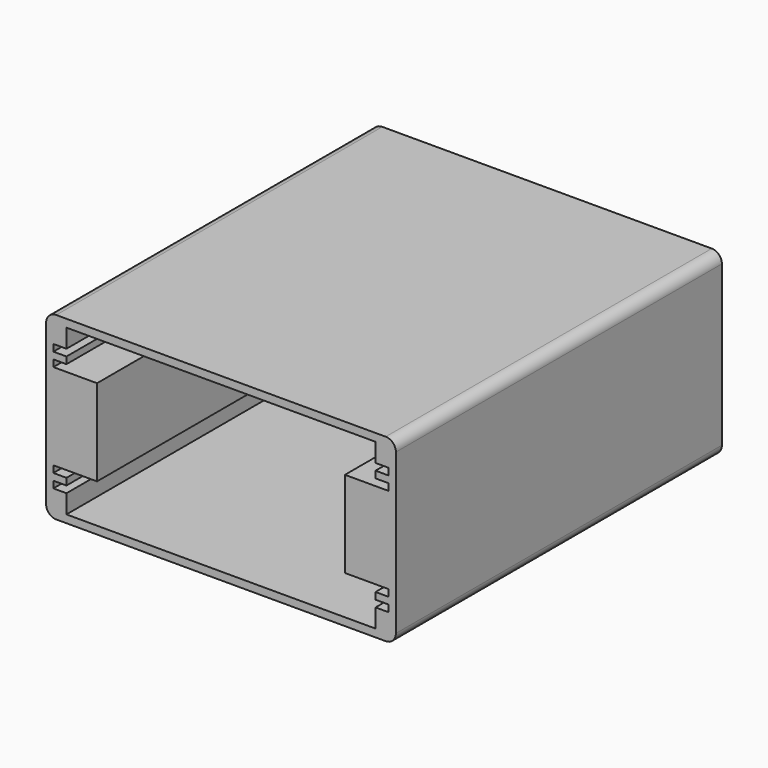
from build123d import *

# Parameters (mm, degrees)
F1_DEPTH = 60


with BuildPart() as f1:
    # F0 (on Front) → F1 (new body, symmetric)
    with BuildSketch(Plane.XZ):
        with BuildLine():
            Line((49.355, 12.725), (51.5, 12.725))
            Line((51.5, 12.725), (51.5, 23.5))
            ThreePointArc((51.5, 23.5), (50.62132, 25.62132), (48.5, 26.5))
            Line((48.5, 26.5), (-48.5, 26.5))
            ThreePointArc((-48.5, 26.5), (-50.62132, 25.62132), (-51.5, 23.5))
            Line((-51.5, 23.5), (-51.5, 12.725))
            Line((-51.5, 12.725), (-49.355, 12.725))
            Line((-49.355, 12.725), (-49.355, 14.725))
            Line((-49.355, 14.725), (-45.5, 14.725))
            Line((-45.5, 14.725), (-45.5, 16.725))
            Line((-45.5, 16.725), (-49.355, 16.725))
            Line((-49.355, 16.725), (-49.355, 18.725))
            Line((-49.355, 18.725), (-45.5, 18.725))
            Line((-45.5, 18.725), (-45.5, 24.21))
            Line((-45.5, 24.21), (45.5, 24.21))
            Line((45.5, 24.21), (45.5, 18.725))
            Line((45.5, 18.725), (49.355, 18.725))
            Line((49.355, 18.725), (49.355, 16.725))
            Line((49.355, 16.725), (45.5, 16.725))
            Line((45.5, 16.725), (45.5, 14.725))
            Line((45.5, 14.725), (49.355, 14.725))
            Line((49.355, 14.725), (49.355, 12.725))
        make_face()
        Polygon((-51.5, 12.725), (-51.5, -12.725), (-49.355, -12.725), (-36.5, -12.725), (-36.5, 12.725), (-49.355, 12.725), align=None)
        with BuildLine():
            Line((-48.5, -26.5), (48.5, -26.5))
            ThreePointArc((48.5, -26.5), (50.62132, -25.62132), (51.5, -23.5))
            Line((51.5, -23.5), (51.5, -12.725))
            Line((51.5, -12.725), (49.355, -12.725))
            Line((49.355, -12.725), (49.355, -14.725))
            Line((49.355, -14.725), (45.5, -14.725))
            Line((45.5, -14.725), (45.5, -16.725))
            Line((45.5, -16.725), (49.355, -16.725))
            Line((49.355, -16.725), (49.355, -18.725))
            Line((49.355, -18.725), (45.5, -18.725))
            Line((45.5, -18.725), (45.5, -24.21))
            Line((45.5, -24.21), (-45.5, -24.21))
            Line((-45.5, -24.21), (-45.5, -18.725))
            Line((-45.5, -18.725), (-49.355, -18.725))
            Line((-49.355, -18.725), (-49.355, -16.725))
            Line((-49.355, -16.725), (-45.5, -16.725))
            Line((-45.5, -16.725), (-45.5, -14.725))
            Line((-45.5, -14.725), (-49.355, -14.725))
            Line((-49.355, -14.725), (-49.355, -12.725))
            Line((-49.355, -12.725), (-51.5, -12.725))
            Line((-51.5, -12.725), (-51.5, -23.5))
            ThreePointArc((-51.5, -23.5), (-50.62132, -25.62132), (-48.5, -26.5))
        make_face()
        Polygon((49.355, -12.725), (51.5, -12.725), (51.5, 12.725), (49.355, 12.725), (36.5, 12.725), (36.5, -12.725), align=None)
    extrude(amount=F1_DEPTH, both=True)


solid = f1.part
